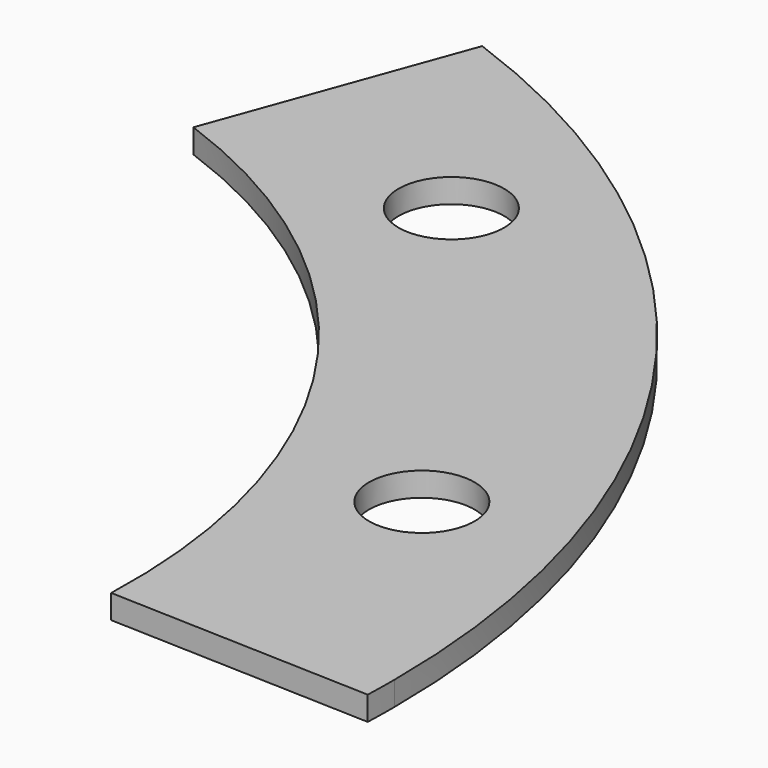
from build123d import *

# Parameters (mm, degrees)
F1_DEPTH = 5
F2_D     = 22


with BuildPart() as f1:
    # F0 (on Top) → F1 (new body)
    with BuildSketch(Plane.XY):
        with BuildLine():
            ThreePointArc((167.5, 0), (137.2079674184, 96.0740530888), (57.288374007, 157.3985139816))
            Line((57.288374007, 157.3985139816), (47.8828200656, 131.55696691))
            ThreePointArc((47.8828200656, 131.55696691), (114.6812862005, 80.3007010891), (140, 0))
            ThreePointArc((140, 0), (139.9786773219, -2.4433369012), (139.9147157827, -4.8859295383))
            Line((139.9147157827, -4.8859295384), (167.3979635257, -5.8456656977))
            ThreePointArc((167.3979635257, -5.8456656977), (167.4744889387, -2.9232780782), (167.5, 0))
        make_face()
        with BuildLine():
            ThreePointArc((194.8812112687, -6.805401857), (194.9703005555, -3.4032192553), (195, 0))
            ThreePointArc((195, 0), (159.7346486364, 111.8474050885), (66.6939279485, 183.2400610533))
            Line((66.6939279485, 183.2400610533), (57.288374007, 157.3985139816))
            ThreePointArc((57.288374007, 157.3985139816), (137.2079674184, 96.0740530888), (167.5, 0))
            ThreePointArc((167.5, 0), (167.4744889387, -2.9232780782), (167.3979635257, -5.8456656977))
            Line((167.3979635257, -5.8456656977), (194.8812112687, -6.805401857))
        make_face()
    extrude(amount=F1_DEPTH)

    # F2 (through all)
    with Locations(Plane(origin=(0, 0, 0), x_dir=(1, 0, 0), z_dir=(0, 0, -1))):
        with Locations((98.454029759, -135.5103465578), (159.3019664794, -51.7603465578), (159.3019664794, 51.7603465578)):
            Hole(F2_D / 2)


solid = f1.part
